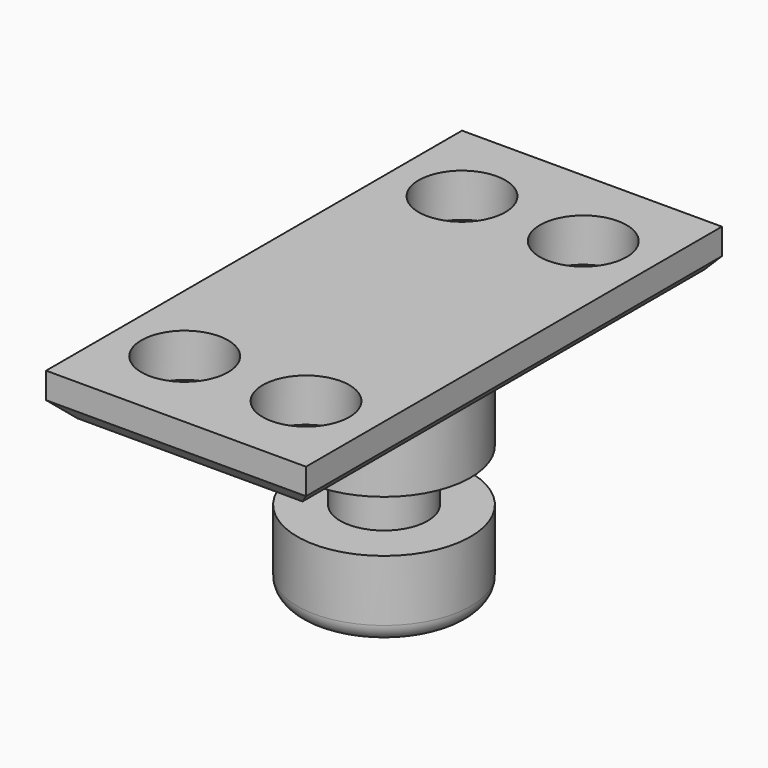
from build123d import *

# Parameters (mm, degrees)
F0_W     = 76.2
F0_H     = 152.4
F1_DEPTH = 12.7
F2_R     = 12.7
F3_DEPTH = 12.7
F4_W     = 25.4
F4_H     = 63.5
F6_W     = 17.78
F6_H     = 15.24
F8_R     = 5.08
F9_SIZE  = 5.08


with BuildPart() as f1:
    # F0 (on Top) → F1 (new body)
    with BuildSketch(Plane.XY):
        Rectangle(F0_W, F0_H)
    extrude(amount=F1_DEPTH)

    # F2 (on Top) → F3 (cut, through all)
    with BuildSketch(Plane.XY):
        with Locations((-17.78, 50.8)):
            Circle(F2_R)
        with Locations((17.78, 50.8)):
            Circle(F2_R)
        with Locations((-17.78, -50.8)):
            Circle(F2_R)
        with Locations((17.78, -50.8)):
            Circle(F2_R)
    extrude(amount=F3_DEPTH, mode=Mode.SUBTRACT)

    # F4 (on Right) → F5 (revolve)
    with BuildSketch(Plane.YZ):
        with Locations((12.7, -31.75)):
            Rectangle(F4_W, F4_H)
    revolve(axis=Axis((0, 0, -31.75), (0, 0, 1)))

    # F6 (on Right) → F7 (revolve, cut)
    with BuildSketch(Plane.YZ):
        with Locations((21.713463, -32.855657)):
            Rectangle(F6_W, F6_H)
    revolve(axis=Axis((0, 0, -63.5), (0, 0, 1)), mode=Mode.SUBTRACT)

    # F8
    f8_edges = [f1.edges().sort_by_distance(p)[0] for p in [
        (0, -25.4, -63.5),
        (0, -25.4, 0),
    ]]
    fillet(f8_edges, radius=F8_R)

    # F9
    f9_edges = [f1.edges().sort_by_distance(p)[0] for p in [
        (-38.1, 0, 0),
        (0, -76.2, 0),
        (38.1, 0, 0),
    ]]
    chamfer(f9_edges, length=F9_SIZE)


solid = f1.part
